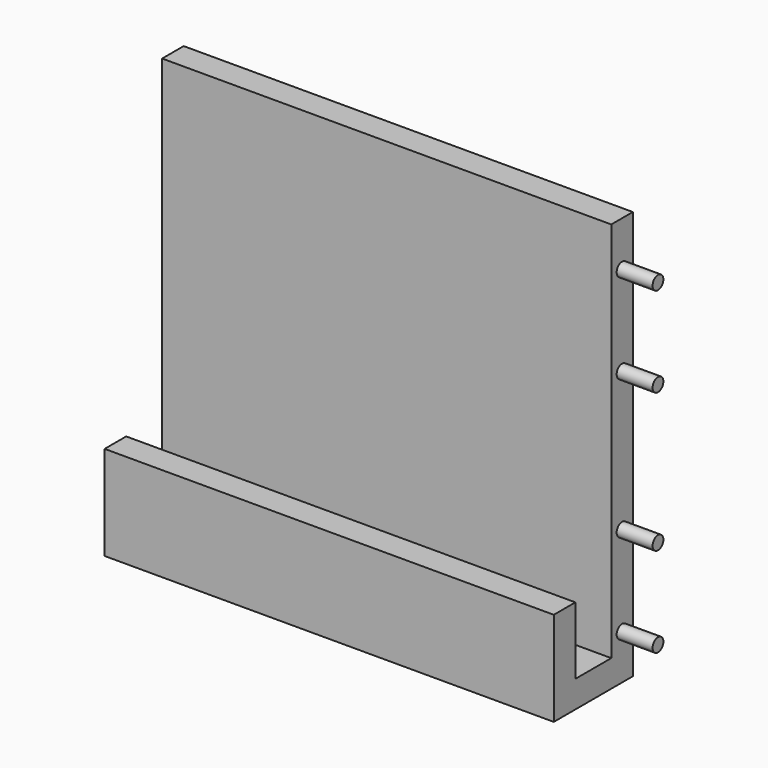
from build123d import *

# Parameters (mm, degrees)
F1_DEPTH = 100
F2_R     = 1.5
F3_DEPTH = 8
F4_R     = 1.875
F5_DEPTH = 9
F6_R     = 1.875
F7_DEPTH = 9


with BuildPart() as f1:
    # F0 (on Right) → F1 (new body)
    with BuildSketch(Plane.YZ):
        Polygon((21.477706, -37.121146), (21.477706, 53.878854), (15.477706, 53.878854), (15.477706, -31.121146), (5.477706, -31.121146), (5.477706, -16.121146), (-0.522294, -16.121146), (-0.522294, -37.121146), align=None)
    extrude(amount=F1_DEPTH)

    # F2 (on face) → F3 (join)
    with BuildSketch(Plane.YZ.offset(100)):
        with Locations((18.477706, 43.878854)):
            Circle(F2_R)
        with Locations((18.477706, 23.878854)):
            Circle(F2_R)
        with Locations((18.477706, -7.121146)):
            Circle(F2_R)
        with Locations((18.477706, -27.121146)):
            Circle(F2_R)
    extrude(amount=F3_DEPTH)

    # F4 (on face) → F5 (cut)
    with BuildSketch(Plane(origin=(0, 0, 0), x_dir=(0, -1, 0), z_dir=(-1, 0, 0))):
        with Locations((-18.477706, 23.878854)):
            Circle(F4_R)
        with Locations((-18.477706, 43.878854)):
            Circle(F4_R)
        with Locations((-18.477706, -7.121146)):
            Circle(F4_R)
        with Locations((-18.477706, -27.121146)):
            Circle(F4_R)
    extrude(amount=-F5_DEPTH, mode=Mode.SUBTRACT)

    # F6 (on face) → F7 (cut)
    with BuildSketch(Plane(origin=(0, 21.477706, 0), x_dir=(-1, 0, 0), z_dir=(0, 1, 0))):
        with Locations((-80, -34.121146)):
            Circle(F6_R)
        with Locations((-60, -34.121146)):
            Circle(F6_R)
        with Locations((-40, -34.121146)):
            Circle(F6_R)
        with Locations((-20, -34.121146)):
            Circle(F6_R)
    extrude(amount=-F7_DEPTH, mode=Mode.SUBTRACT)


solid = f1.part
